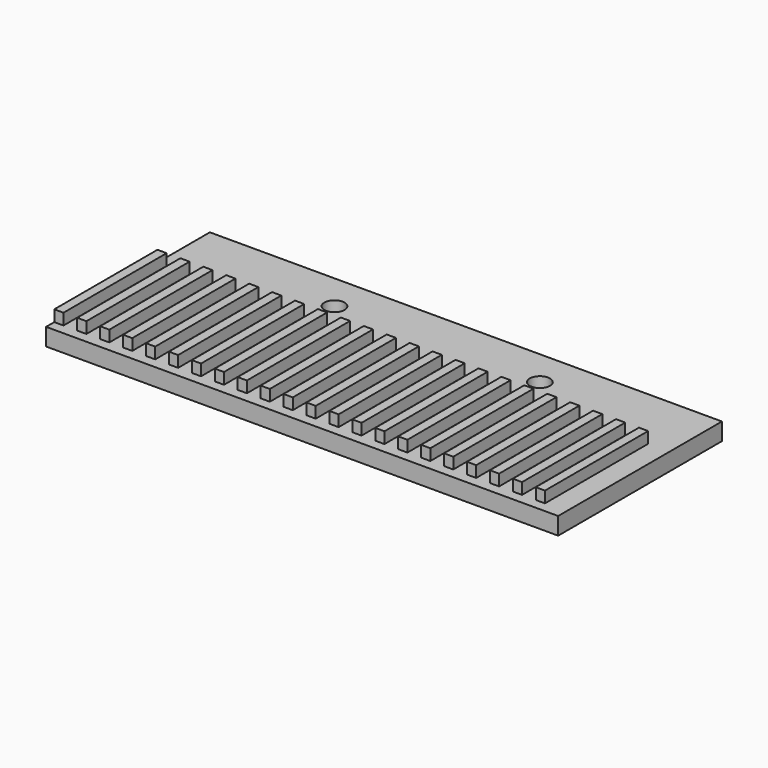
from build123d import *

# Parameters (mm, degrees)
F0_W     = 127.07
F0_H     = 50.8
F0_R     = 2.5
F1_DEPTH = 4.3053
F2_W     = 2.286
F2_H     = 32.004
F3_DEPTH = 2.794


with BuildPart() as f1:
    # F0 (on Top) → F1 (new body)
    with BuildSketch(Plane.XY):
        with Locations((63.535, -25.4)):
            Rectangle(F0_W, F0_H)
        with Locations((38.2335, -9.144)):
            Circle(F0_R, mode=Mode.SUBTRACT)
        with Locations((89.21, -9.144)):
            Circle(F0_R, mode=Mode.SUBTRACT)
    extrude(amount=F1_DEPTH)

    # F2 (on face) → F3 (join)
    with BuildSketch(Plane.XY.offset(4.3053)):
        with Locations((1.143, -32.258)):
            Rectangle(F2_W, F2_H)
        with Locations((6.8326, -32.258)):
            Rectangle(F2_W, F2_H)
        with Locations((12.5222, -32.258)):
            Rectangle(F2_W, F2_H)
        with Locations((18.2118, -32.258)):
            Rectangle(F2_W, F2_H)
        with Locations((23.9014, -32.258)):
            Rectangle(F2_W, F2_H)
        with Locations((29.591, -32.258)):
            Rectangle(F2_W, F2_H)
        with Locations((35.2806, -32.258)):
            Rectangle(F2_W, F2_H)
        with Locations((40.9702, -32.258)):
            Rectangle(F2_W, F2_H)
        with Locations((46.6598, -32.258)):
            Rectangle(F2_W, F2_H)
        with Locations((52.3494, -32.258)):
            Rectangle(F2_W, F2_H)
        with Locations((58.039, -32.258)):
            Rectangle(F2_W, F2_H)
        with Locations((63.7286, -32.258)):
            Rectangle(F2_W, F2_H)
        with Locations((69.4182, -32.258)):
            Rectangle(F2_W, F2_H)
        with Locations((75.1078, -32.258)):
            Rectangle(F2_W, F2_H)
        with Locations((80.7974, -32.258)):
            Rectangle(F2_W, F2_H)
        with Locations((86.487, -32.258)):
            Rectangle(F2_W, F2_H)
        with Locations((92.1766, -32.258)):
            Rectangle(F2_W, F2_H)
        with Locations((97.8662, -32.258)):
            Rectangle(F2_W, F2_H)
        with Locations((103.5558, -32.258)):
            Rectangle(F2_W, F2_H)
        with Locations((109.2454, -32.258)):
            Rectangle(F2_W, F2_H)
        with Locations((114.935, -32.258)):
            Rectangle(F2_W, F2_H)
        with Locations((120.6246, -32.258)):
            Rectangle(F2_W, F2_H)
    extrude(amount=F3_DEPTH)


solid = f1.part
